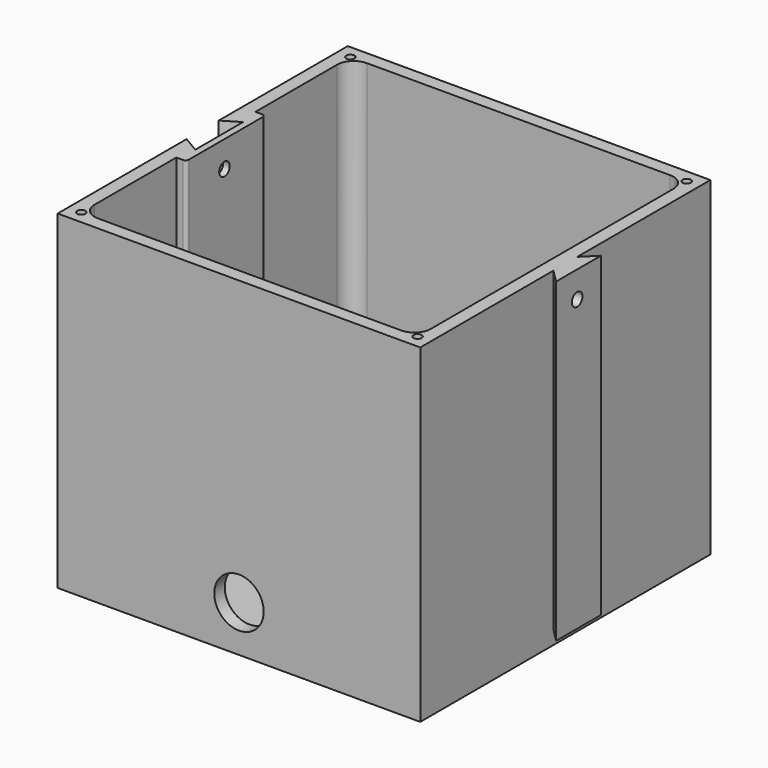
from build123d import *

# Parameters (mm, degrees)
F1_DEPTH  = 100
F2_W      = 110
F2_H      = 110
F3_DEPTH  = 4
F4_W      = 17
F4_H      = 4.05
F5_DEPTH  = 4
F7_D      = 4
F8_R      = 7.5
F9_DEPTH  = 25
F11_D     = 2.5
F11_DEPTH = 12
F11_TIP   = 0.7510757738


with BuildPart() as f1:
    # F0 (on Top) → F1 (new body)
    with BuildSketch(Plane.XY):
        Polygon((0, 48.925), (0, 0), (110, 0), (110, 50.5), (114, 46.5), (114, 63.5), (110, 59.5), (110, 110), (0, 110), (0, 61.075), (5, 64.075), (5, 45.925), align=None)
        with BuildLine():
            ThreePointArc((4, 101), (5.4644660941, 104.5355339059), (9, 106))
            Line((9, 106), (101, 106))
            ThreePointArc((101, 106), (104.5355339059, 104.5355339059), (106, 101))
            Line((106, 101), (106, 9))
            ThreePointArc((106, 9), (104.5355339059, 5.4644660941), (101, 4))
            Line((101, 4), (9, 4))
            ThreePointArc((9, 4), (5.4644660941, 5.4644660941), (4, 9))
            Line((4, 9), (4, 40))
            Line((4, 40), (6, 40))
            ThreePointArc((6, 40), (6.7071067812, 40.2928932188), (7, 41))
            Line((7, 41), (7, 69))
            ThreePointArc((7, 69), (6.7071067812, 69.7071067812), (6, 70))
            Line((6, 70), (4, 70))
            Line((4, 70), (4, 101))
        make_face(mode=Mode.SUBTRACT)
    extrude(amount=F1_DEPTH)

    # F2 (on Top) → F3 (join)
    with BuildSketch(Plane.XY):
        with Locations((55, 55)):
            Rectangle(F2_W, F2_H)
    extrude(amount=F3_DEPTH)

    # F4 (on face) → F5 (cut)
    with BuildSketch(Plane.YZ.offset(114)):
        with Locations((55, 2.025)):
            Rectangle(F4_W, F4_H)
    extrude(amount=-F5_DEPTH, mode=Mode.SUBTRACT)

    # F7 (through all)
    with Locations(Plane.YZ.offset(114)):
        with Locations((54.5, 92)):
            Hole(F7_D / 2)

    # F8 (on face) → F9 (cut)
    with BuildSketch(Plane.XZ):
        with Locations((55, 14)):
            Circle(F8_R)
    extrude(amount=-F9_DEPTH, mode=Mode.SUBTRACT)

    # F11
    with Locations(Plane.XY.offset(100)):
        with Locations((4, 106), (106, 106), (106, 4), (4, 4)):
            Hole(F11_D / 2, depth=F11_DEPTH)
            with Locations((0, 0, -(F11_DEPTH + F11_TIP / 2))):  # 118° drill point
                Cone(0, F11_D / 2, F11_TIP, mode=Mode.SUBTRACT)


solid = f1.part
